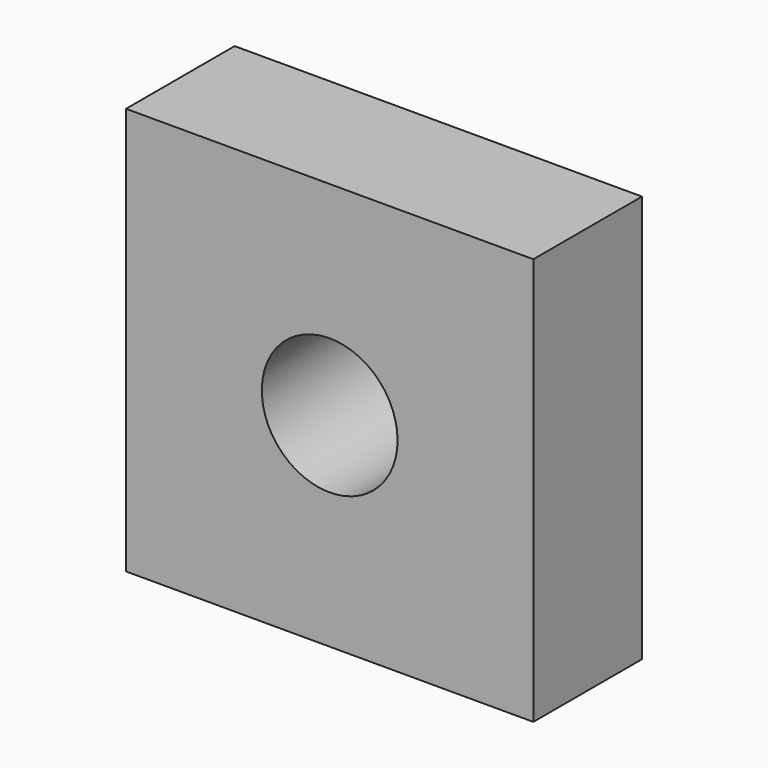
from build123d import *

# Parameters (mm, degrees)
F0_W     = 76.2
F0_H     = 76.2
F0_R     = 12.7
F1_DEPTH = 25.4


with BuildPart() as f1:
    # F0 (on Front) → F1 (new body)
    with BuildSketch(Plane.XZ):
        Rectangle(F0_W, F0_H)
        Circle(F0_R, mode=Mode.SUBTRACT)
    extrude(amount=-F1_DEPTH)


solid = f1.part
